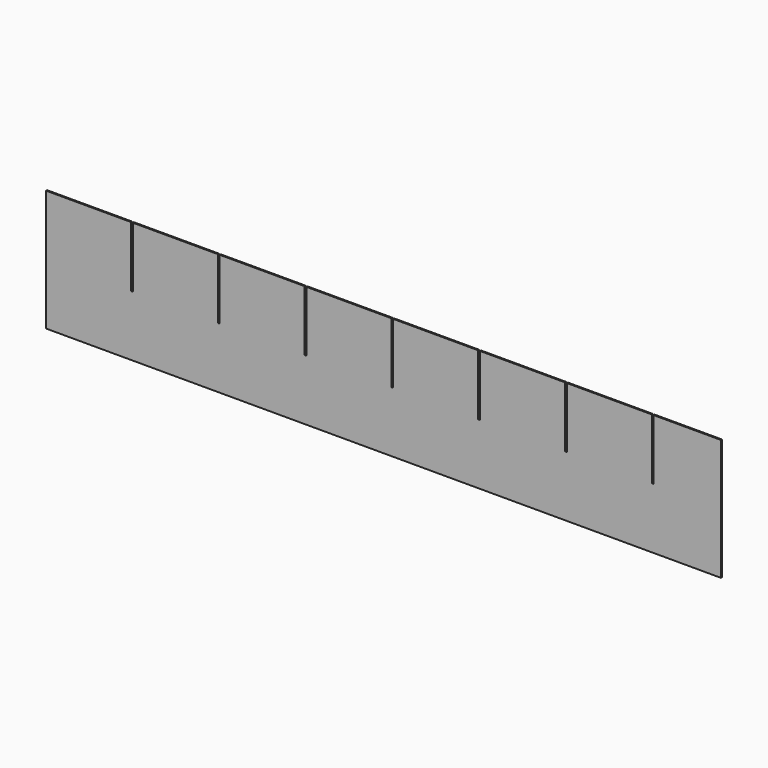
from build123d import *

# Parameters (mm, degrees)
F1_DEPTH = 1


with BuildPart() as f1:
    # F0 (on Front) → F1 (new body)
    with BuildSketch(Plane.XZ):
        Polygon((-106.93277, 36.703874), (-106.93277, -63.296126), (449.06723, -63.296126), (449.06723, 36.703874), (393.56723, 36.703874), (393.56723, -13.296126), (392.06723, -13.296126), (392.06723, 36.703874), (322.06723, 36.703874), (322.06723, -13.296126), (320.56723, -13.296126), (320.56723, 36.703874), (250.56723, 36.703874), (250.56723, -13.296126), (249.06723, -13.296126), (249.06723, 36.703874), (179.06723, 36.703874), (179.06723, -13.296126), (177.56723, -13.296126), (177.56723, 36.703874), (107.56723, 36.703874), (107.56723, -13.296126), (106.06723, -13.296126), (106.06723, 36.703874), (36.06723, 36.703874), (36.06723, -13.296126), (34.56723, -13.296126), (34.56723, 36.703874), (-35.43277, 36.703874), (-35.43277, -13.296126), (-36.93277, -13.296126), (-36.93277, 36.703874), align=None)
    extrude(amount=F1_DEPTH)


solid = f1.part
